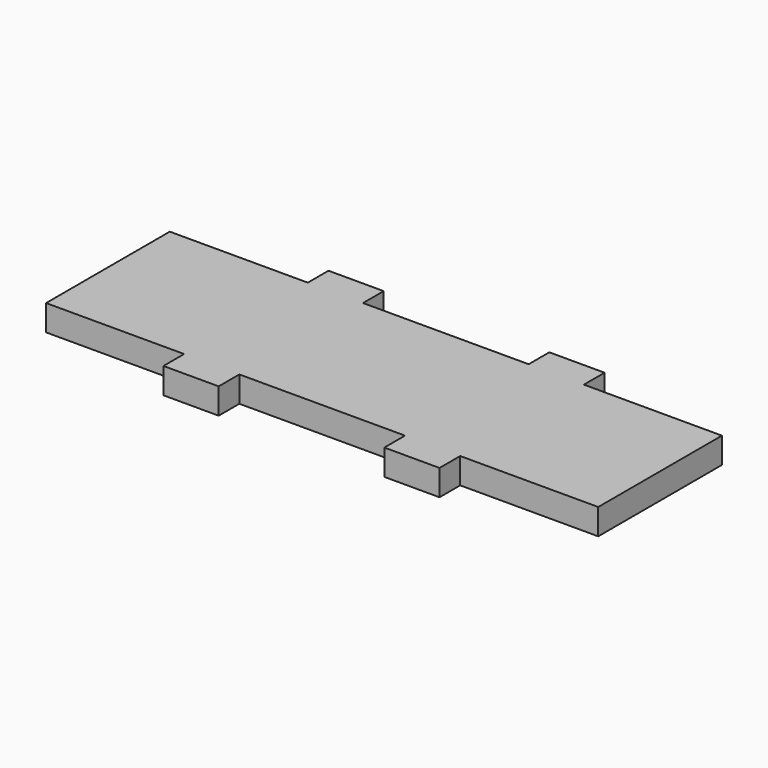
from build123d import *

# Parameters (mm, degrees)
F0_W     = 6.35
F0_H     = 2.9718
F1_DEPTH = 2.9718


with BuildPart() as f1:
    # F0 (on Top) → F1 (new body)
    with BuildSketch(Plane.XY):
        Polygon((31.75, -8.8900044046), (31.75, 8.8900044046), (15.875, 8.8900044046), (9.525, 8.8900044046), (-9.525, 8.8900044046), (-9.525, 5.9182044046), (-15.875, 5.9182044046), (-15.875, 8.8900044046), (-31.75, 8.8900044046), (-31.75, -8.8900044046), (-15.875, -8.8900044046), (-9.525, -8.8900044046), (9.525, -8.8900044046), (15.875, -8.8900044046), align=None)
        with Locations((12.7, 10.3759044046)):
            Rectangle(F0_W, F0_H)
        with Locations((12.7, -10.3759044046)):
            Rectangle(F0_W, F0_H)
        with Locations((-12.7, 7.4041044046)):
            Rectangle(F0_W, F0_H)
        with Locations((-12.7, 10.3759044046)):
            Rectangle(F0_W, F0_H)
        with Locations((-12.7, -10.3759044046)):
            Rectangle(F0_W, F0_H)
    extrude(amount=F1_DEPTH)


solid = f1.part
